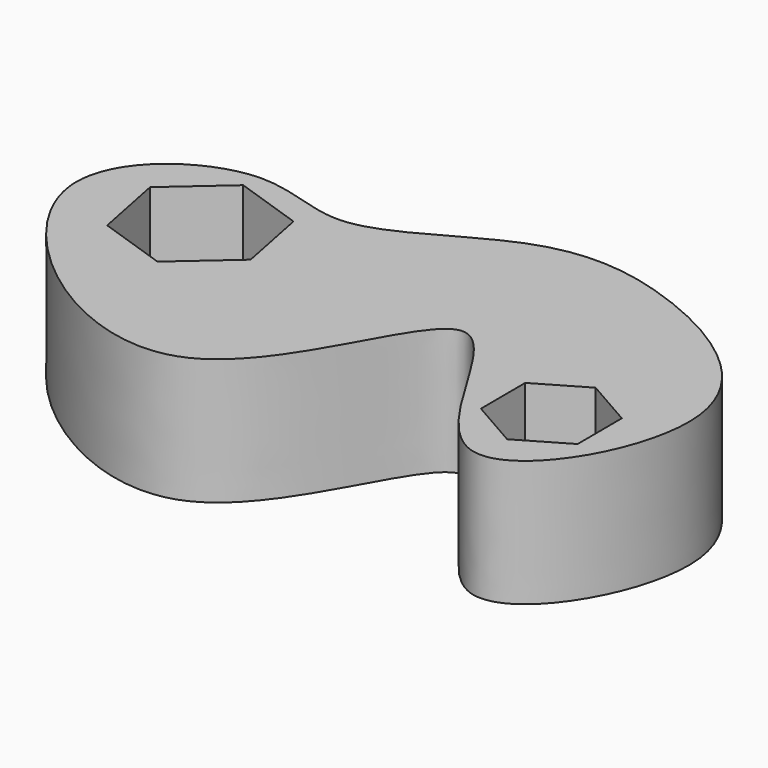
from build123d import *

# Parameters (mm, degrees)
F1_DEPTH = 25.4
F3_DEPTH = 53.594
F5_DEPTH = 46.736


with BuildPart() as f1:
    # F0 (on Top) → F1 (new body)
    with BuildSketch(Plane.XY):
        with BuildLine():
            add(Edge.make_bspline(
                [(-61.9844906032, 0), (-60.0285421446, -16.9707112764), (-4.083268658, -62.4557882401), (15.5686074282, 28.2853588819), (41.389926039, -53.9414421657), (77.4001609564, 6.1887292245), (34.9598968602, 31.8403824432), (6.4993958, 33.7765551154), (-20.6730803062, 11.5647429365), (-40.9929859833, 26.9532044009), (-63.3346871001, 11.7149277699), (-61.9844906032, 0)],
                knots=[0, 0, 0, 0, 0.1436813344, 0.2681265573, 0.3856073273, 0.4978859096, 0.6158976857, 0.7146581302, 0.8153931083, 0.9008163873, 1, 1, 1, 1], degree=3))
        make_face()
    extrude(amount=F1_DEPTH)

    # F2 (on face) → F3 (cut)
    with BuildSketch(Plane.XY.offset(25.4)):
        Polygon((-35.1605257811, -11.4629702239), (-24.1492138384, -1.7945016206), (-27.0166972931, 12.5758085524), (-40.8954926906, 17.2776501222), (-51.9068046334, 7.609181519), (-49.0393211786, -6.7611286541), align=None)
    extrude(amount=-F3_DEPTH, mode=Mode.SUBTRACT)

    # F4 (on face) → F5 (cut)
    with BuildSketch(Plane.XY.offset(25.4)):
        Polygon((45.4207024028, -1.9480670663), (35.7522332618, -7.5880083395), (35.8023311098, -18.7811188679), (45.5208980987, -24.334288123), (55.1893672397, -18.6943468498), (55.1392693917, -7.5012363215), align=None)
    extrude(amount=-F5_DEPTH, mode=Mode.SUBTRACT)


solid = f1.part
